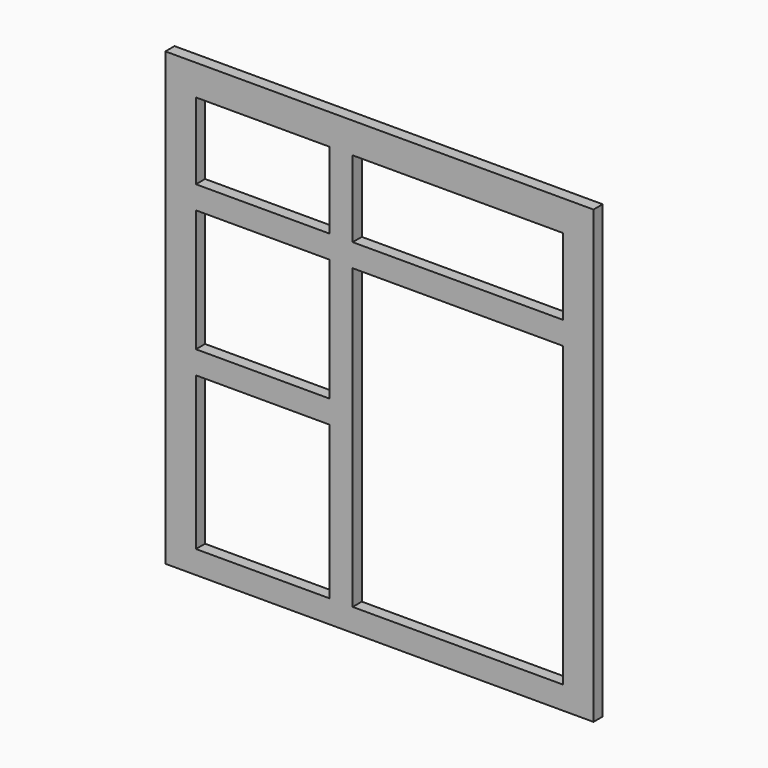
from build123d import *

# Parameters (mm, degrees)
F0_W     = 349.25
F0_H     = 38.1
F0_W_2   = 222.25
F1_DEPTH = 19.05


with BuildPart() as f1:
    # F0 (on Front) → F1 (new body)
    with BuildSketch(Plane.XZ):
        Polygon((0, 749.3), (0, 0), (50.8, 0), (50.8, 38.1), (50.8, 292.1), (50.8, 330.2), (50.8, 533.4), (50.8, 571.5), (50.8, 698.5), (50.8, 749.3), align=None)
        Polygon((660.4, 749.3), (50.8, 749.3), (50.8, 698.5), (273.05, 698.5), (311.15, 698.5), (660.4, 698.5), align=None)
        Polygon((660.4, 38.1), (660.4, 0), (711.2, 0), (711.2, 749.3), (660.4, 749.3), (660.4, 698.5), (660.4, 571.5), (660.4, 533.4), align=None)
        Polygon((273.05, 292.1), (273.05, 38.1), (311.15, 38.1), (311.15, 533.4), (311.15, 571.5), (311.15, 698.5), (273.05, 698.5), (273.05, 571.5), (273.05, 533.4), (273.05, 330.2), align=None)
        with Locations((485.775, 552.45)):
            Rectangle(F0_W, F0_H)
        with Locations((161.925, 552.45)):
            Rectangle(F0_W_2, F0_H)
        with Locations((161.925, 311.15)):
            Rectangle(F0_W_2, F0_H)
        Polygon((50.8, 38.1), (50.8, 0), (660.4, 0), (660.4, 38.1), (311.15, 38.1), (273.05, 38.1), align=None)
    extrude(amount=F1_DEPTH)


solid = f1.part
